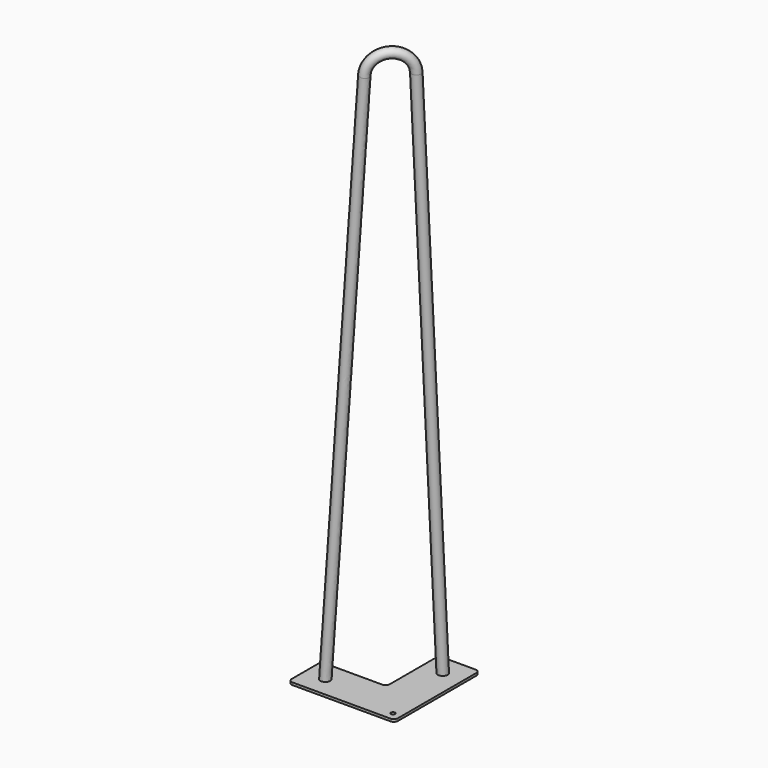
from build123d import *

# Parameters (mm, degrees)
F1_DEPTH  = 3
F6_R      = 6
F8_W      = 130
F8_H      = 10
F9_DEPTH  = 130.0010001
F11_D     = 5
F11_DEPTH = 30
F11_TIP   = 1.5021515476
F12_R     = 5


with BuildPart() as f1:
    # F0 (on Top) → F1 (new body)
    with BuildSketch(Plane.XY):
        Polygon((0, 50), (0, 0), (130, 0), (130, 130), (80, 130), (80, 50), align=None)
    extrude(amount=F1_DEPTH)

    # F7: sweep along a path in F5
    with BuildLine(Plane(origin=(0, 0, 0), x_dir=(-0.7003277789, -0.7093712678, 0.0795827022), z_dir=(-0.7048350193, 0.7048350193, 0.0800948886))) as f7_path:
        Line((-148.0183999064, 11.8555172446), (-62.0396720886, 689.5798010326))
        ThreePointArc((-62.0396720886, 689.5798010326), (-35.2424761682, 711.3536166166), (-12.2526163933, 685.5921123552))
        Line((-12.2526163933, 685.5921123552), (-35.2424761682, 2.8227422011))
    # F6 (on Top) → F7 (sweep)
    with BuildSketch(Plane.XY):
        with Locations((105, 105)):
            Circle(F6_R)
    sweep(path=f7_path.line)

    # F8 (on Front) → F9 (cut, through all)
    with BuildSketch(Plane.XZ):
        with Locations((65, -5)):
            Rectangle(F8_W, F8_H)
    extrude(amount=-F9_DEPTH, mode=Mode.SUBTRACT)

    # F11
    with Locations(Plane(origin=(0, 0, 0), x_dir=(1, 0, 0), z_dir=(0, 0, -1))):
        with Locations((90, -120), (120, -10), (10, -40)):
            Hole(F11_D / 2, depth=F11_DEPTH)
            with Locations((0, 0, -(F11_DEPTH + F11_TIP / 2))):  # 118° drill point
                Cone(0, F11_D / 2, F11_TIP, mode=Mode.SUBTRACT)

    # F12
    f12_edges = [f1.edges().sort_by_distance(p)[0] for p in [
        (130, 130, 1.5),
        (80, 130, 1.5),
        (80, 50, 1.5),
        (0, 50, 1.5),
        (0, 0, 1.5),
        (130, 0, 1.5),
    ]]
    fillet(f12_edges, radius=F12_R)


solid = f1.part
